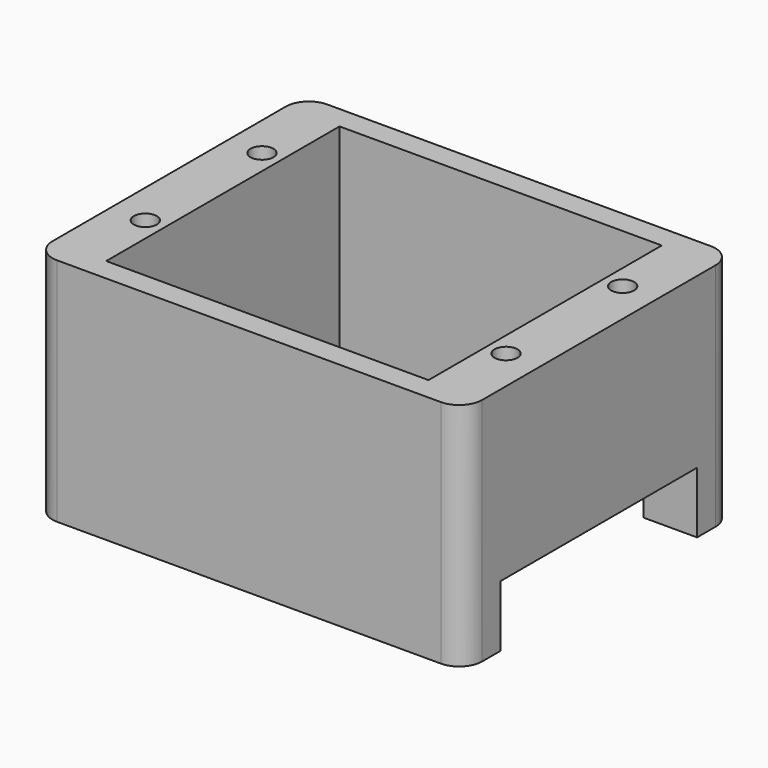
from build123d import *

# Parameters (mm, degrees)
F0_W     = 28
F0_H     = 22
F1_DEPTH = 15
F3_R     = 1.5
F5_D     = 1.5
F6_D     = 1.5
F7_D     = 1.5
F8_D     = 1.5
F2_W     = 16
F2_H     = 4
F9_DEPTH = 10


with BuildPart() as f1:
    # F0 (on Top) → F1 (new body)
    with BuildSketch(Plane.XY):
        with Locations((-1.261453, -0.651873)):
            Rectangle(F0_W, F0_H)
        Polygon((-11.761453, -10.151873), (-11.761453, 8.848127), (5.738547, 8.848127), (9.238547, 8.848127), (9.238547, -10.151873), (5.738547, -10.151873), align=None, mode=Mode.SUBTRACT)
    extrude(amount=F1_DEPTH)

    # F3
    f3_edges = [f1.edges().sort_by_distance(p)[0] for p in [
        (12.738547, 10.348127, 7.5),
        (12.738547, -11.651873, 7.5),
        (-15.261453, -11.651873, 7.5),
        (-15.261453, 10.348127, 7.5),
    ]]
    fillet(f3_edges, radius=F3_R)

    # F5 (through all)
    with Locations(Plane.XY.offset(15)):
        with Locations((-13.011453, 4.098127)):
            Hole(F5_D / 2)

    # F6 (through all)
    with Locations(Plane.XY.offset(15)):
        with Locations((-13.011453, -5.401873)):
            Hole(F6_D / 2)

    # F7 (through all)
    with Locations(Plane.XY.offset(15)):
        with Locations((10.488547, -5.401873)):
            Hole(F7_D / 2)

    # F8 (through all)
    with Locations(Plane.XY.offset(15)):
        with Locations((10.488547, 4.098127)):
            Hole(F8_D / 2)

    # F2 (on face) → F9 (cut)
    with BuildSketch(Plane.YZ.offset(12.738547)):
        with Locations((-0.651873, 2)):
            Rectangle(F2_W, F2_H)
    extrude(amount=-F9_DEPTH, mode=Mode.SUBTRACT)


solid = f1.part
